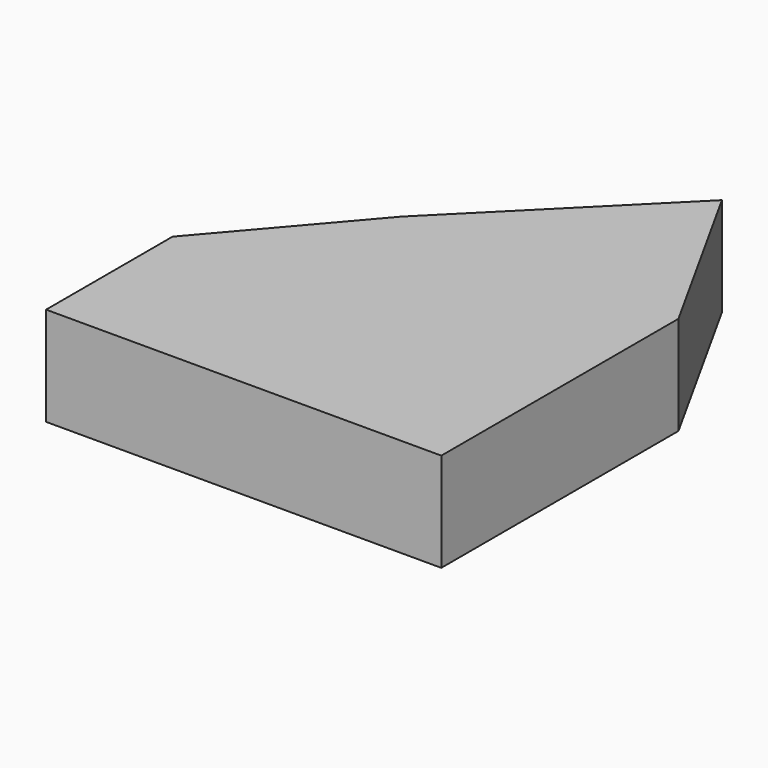
from build123d import *

# Parameters (mm, degrees)
F0_W     = 100
F0_H     = 20
F1_DEPTH = 25


with BuildPart() as f1:
    # F0 (on Top) → F1 (new body)
    with BuildSketch(Plane.XY):
        Polygon((1.057282, 131.128362), (-43.942718, 86.128362), (26.057282, 86.128362), align=None)
        Polygon((-43.942718, 86.128362), (-73.942718, 51.128362), (26.057282, 51.128362), (26.057282, 86.128362), align=None)
        with Locations((-23.942718, 41.128362)):
            Rectangle(F0_W, F0_H)
        with Locations((-23.942718, 21.128362)):
            Rectangle(F0_W, F0_H)
    extrude(amount=F1_DEPTH)


solid = f1.part
